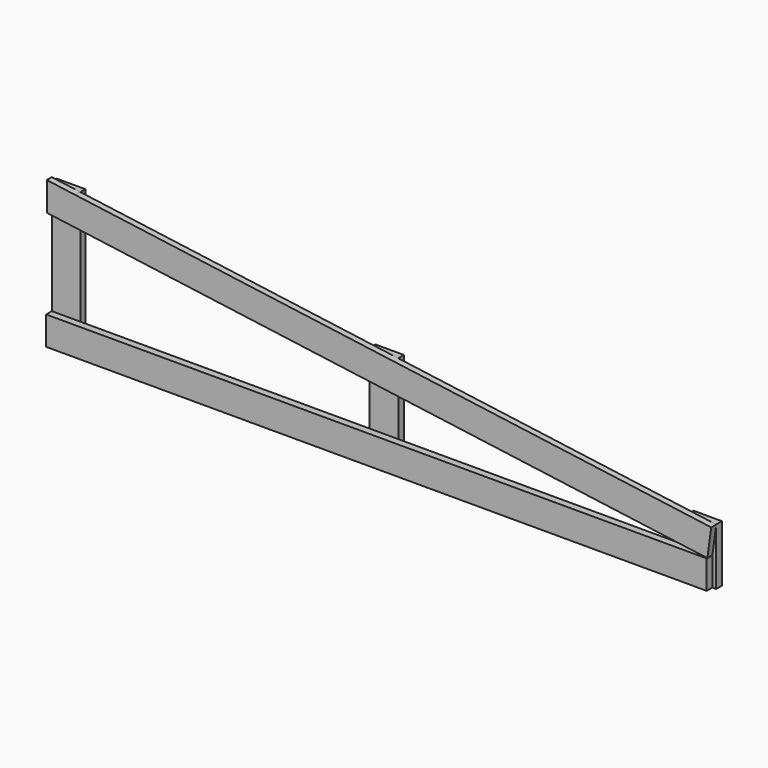
from build123d import *

# Parameters (mm, degrees)
F0_W     = 100
F0_H     = 500
F1_DEPTH = 22
F3_DEPTH = 22
F4_W     = 100
F4_H     = 349.550507
F4_H_2   = 199.101013
F5_DEPTH = 25
F2_W     = 100
F2_H     = 100
F6_DEPTH = 25


with BuildPart() as f1:
    # F0 (on Front) → F1 (new body)
    with BuildSketch(Plane.XZ):
        with Locations((50, 250)):
            Rectangle(F0_W, F0_H)
    extrude(amount=F1_DEPTH)

    # F2 (on face) → F3 (join)
    with BuildSketch(Plane.XZ.offset(22)):
        Polygon((100, 500), (100, 399.092858), (2315.495133, 100), (2328.873815, 199.101013), align=None)
        Polygon((0, 513.500046), (0, 500), (100, 500), align=None)
        Polygon((0, 500), (0, 412.592904), (100, 399.092858), (100, 500), align=None)
    extrude(amount=F3_DEPTH)

    # F4 (on face) → F5 (join)
    with BuildSketch(Plane(origin=(0, -22, 0), x_dir=(-1, 0, 0), z_dir=(0, 1, 0))):
        with Locations((-1164.436908, 174.775253)):
            Rectangle(F4_W, F4_H)
        with Locations((-2278.873815, 99.550506)):
            Rectangle(F4_W, F4_H_2)
    extrude(amount=F5_DEPTH)

    # F2 (on face) → F6 (join)
    with BuildSketch(Plane.XZ.offset(22)):
        with BuildLine():
            Line((2310.495133, 100), (100, 100))
            Line((100, 100), (100, 0))
            Line((100, 0), (2315.495133, 0))
            Line((2315.495133, 0), (2315.495133, 95))
            ThreePointArc((2315.495133, 95), (2314.030667, 98.535534), (2310.495133, 100))
        make_face()
        with Locations((50, 50)):
            Rectangle(F2_W, F2_H)
    extrude(amount=F6_DEPTH)


solid = f1.part
